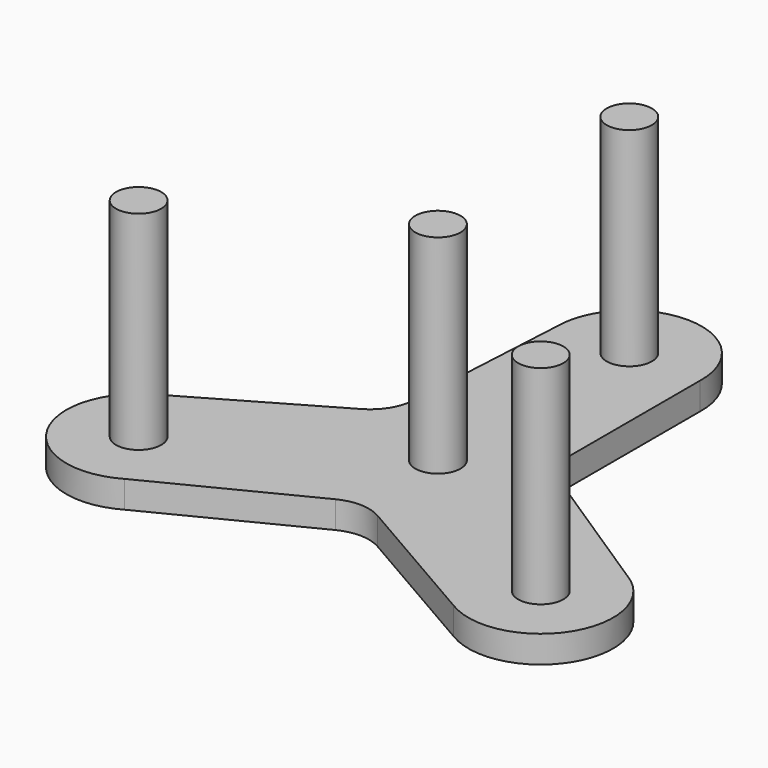
from build123d import *

# Parameters (mm, degrees)
F1_DEPTH = 3
F2_R     = 2.5
F3_DEPTH = 23


with BuildPart() as f1:
    # F0 (on Top) → F1 (new body)
    with BuildSketch(Plane.XY):
        with BuildLine():
            Line((8.3654914829, 7.7478343503), (8.3654914829, 25.7808157751))
            ThreePointArc((8.3654914829, 25.7808157751), (0.4767203504, 33.9966565171), (-7.631576467, 25.9973895632))
            Line((-7.631576467, 25.9973895632), (-8.6528857034, 7.4260866897))
            ThreePointArc((-8.6528857034, 7.4260866897), (-9.3855131516, 5.0826540918), (-11.1453419747, 3.3705145438))
            Line((-11.1453419747, 3.3705145438), (-26.7623619946, -5.6459761686))
            ThreePointArc((-26.7623619946, -5.6459761686), (-29.9331032244, -16.585772745), (-18.951386422, -19.6081302933))
            Line((-18.951386422, -19.6081302933), (-2.3575117339, -11.2069586004))
            ThreePointArc((-2.3575117339, -11.2069586004), (0.038274152, -10.6697162831), (2.400944907, -11.3377029763))
            Line((2.400944907, -11.3377029763), (18.0179649268, -20.3541936886))
            ThreePointArc((18.0179649268, -20.3541936886), (29.0774772891, -17.6302378543), (26.2040573041, -6.6086133521))
            Line((26.2040573041, -6.6086133521), (10.6314918524, 3.5615178285))
            ThreePointArc((10.6314918524, 3.5615178285), (8.9683334147, 5.3677081091), (8.3654914829, 7.7478343503))
        make_face()
        with BuildLine():
            ThreePointArc((-20.451386422, -12.679927063), (-25.3707248656, -13.3098488797), (-20.7688276181, -11.4607318089))
            ThreePointArc((-20.7688276181, -11.4607318089), (-20.5320479783, -12.0500052463), (-20.451386422, -12.679927063))
        make_face(mode=Mode.SUBTRACT)
        with BuildLine():
            ThreePointArc((24.7040573041, -13.5368165824), (21.5399163779, -15.9469860432), (20.0569238399, -12.25626284))
            ThreePointArc((20.0569238399, -12.25626284), (22.8681982302, -11.1266471215), (24.7040573041, -13.5368165824))
        make_face(mode=Mode.SUBTRACT)
        with BuildLine():
            ThreePointArc((-7.9164689421, -4.2812988086), (-7.6979940139, 4.6627125327), (0.127531223, 8.9990963873))
            ThreePointArc((0.127531223, 8.9990963873), (6.4088915191, 6.3187110629), (9, 0))
            ThreePointArc((9, 0), (8.6421794957, -2.5125153857), (7.5971703192, -4.8252464332))
            ThreePointArc((7.5971703192, -4.8252464332), (-0.315369081, -8.9944728774), (-7.9164689421, -4.2812988086))
        make_face(mode=Mode.SUBTRACT)
        with BuildLine():
            ThreePointArc((2.868423533, 25.9973895632), (2.1236210505, 24.217141919), (0.3329981933, 23.4976405667))
            ThreePointArc((0.3329981933, 23.4976405667), (-1.3867739845, 27.7776372074), (2.868423533, 25.9973895632))
        make_face(mode=Mode.SUBTRACT)
        with BuildLine():
            Line((7.5971703192, -4.8252464332), (2.0066709741, -1.4910639161))
            ThreePointArc((2.0066709741, -1.4910639161), (-0.2232494881, -2.4900119811), (-2.239906233, -1.1103243073))
            Line((-2.239906233, -1.1103243073), (-7.9164689421, -4.2812988086))
            ThreePointArc((-7.9164689421, -4.2812988086), (-0.315369081, -8.9944728774), (7.5971703192, -4.8252464332))
        make_face()
        with BuildLine():
            ThreePointArc((-2.239906233, -1.1103243073), (-2.1149683962, 1.333007383), (0.0354253397, 2.4997489965))
            Line((0.0354253397, 2.4997489965), (0.127531223, 8.9990963873))
            ThreePointArc((0.127531223, 8.9990963873), (-7.6979940139, 4.6627125327), (-7.9164689421, -4.2812988086))
            Line((-7.9164689421, -4.2812988086), (-2.239906233, -1.1103243073))
        make_face()
        with BuildLine():
            ThreePointArc((0.0354253397, 2.4997489965), (1.7802476442, 1.7551975175), (2.5, 0))
            ThreePointArc((2.5, 0), (2.3734655501, -0.7852778377), (2.0066709741, -1.4910639161))
            Line((2.0066709741, -1.4910639161), (7.5971703192, -4.8252464332))
            ThreePointArc((7.5971703192, -4.8252464332), (8.6421794957, -2.5125153857), (9, 0))
            ThreePointArc((9, 0), (6.4088915191, 6.3187110629), (0.127531223, 8.9990963873))
            Line((0.127531223, 8.9990963873), (0.0354253397, 2.4997489965))
        make_face()
        with BuildLine():
            ThreePointArc((2.868423533, 25.9973895632), (-1.3867739845, 27.7776372074), (0.3329981933, 23.4976405667))
            ThreePointArc((0.3329981933, 23.4976405667), (2.1236210505, 24.217141919), (2.868423533, 25.9973895632))
        make_face()
        with BuildLine():
            ThreePointArc((24.7040573041, -13.5368165824), (22.8681982302, -11.1266471215), (20.0569238399, -12.25626284))
            ThreePointArc((20.0569238399, -12.25626284), (21.5399163779, -15.9469860432), (24.7040573041, -13.5368165824))
        make_face()
        with BuildLine():
            ThreePointArc((2.0066709741, -1.4910639161), (2.3734655501, -0.7852778377), (2.5, 0))
            ThreePointArc((2.5, 0), (1.7802476442, 1.7551975175), (0.0354253397, 2.4997489965))
            ThreePointArc((0.0354253397, 2.4997489965), (-2.1149683962, 1.333007383), (-2.239906233, -1.1103243073))
            ThreePointArc((-2.239906233, -1.1103243073), (-0.2232494881, -2.4900119811), (2.0066709741, -1.4910639161))
        make_face()
        with BuildLine():
            ThreePointArc((-20.451386422, -12.679927063), (-20.5320479783, -12.0500052463), (-20.7688276181, -11.4607318089))
            ThreePointArc((-20.7688276181, -11.4607318089), (-25.3707248656, -13.3098488797), (-20.451386422, -12.679927063))
        make_face()
    extrude(amount=F1_DEPTH)

    # F2 (on face) → F3 (join)
    with BuildSketch(Plane.XY.offset(3)):
        with Locations((-22.951386422, -12.679927063)):
            Circle(F2_R)
        with Locations((0.368423533, 25.9973895632)):
            Circle(F2_R)
        with Locations((22.2040573041, -13.5368165824)):
            Circle(F2_R)
        Circle(F2_R)
    extrude(amount=F3_DEPTH)


solid = f1.part
